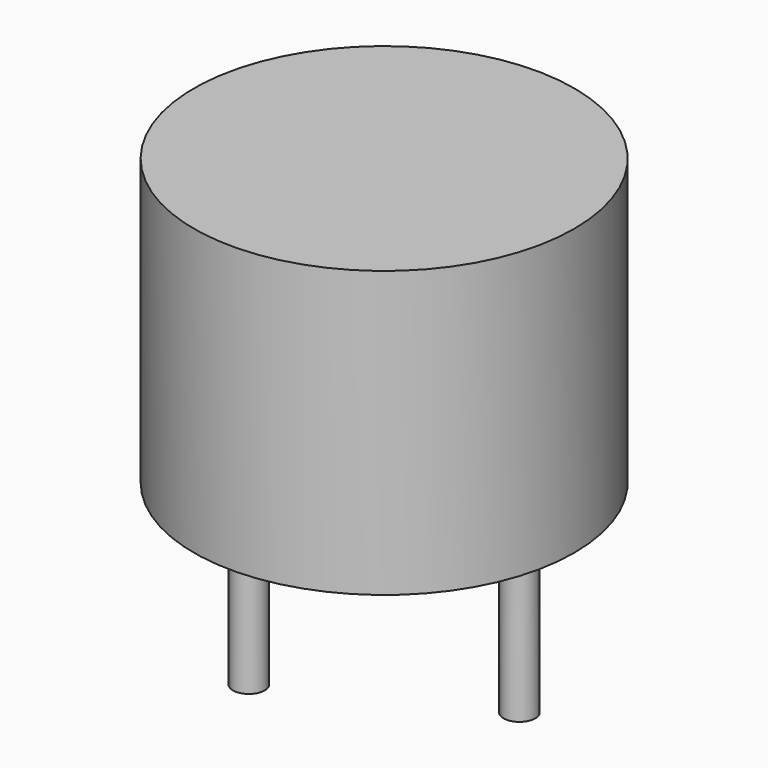
from build123d import *

# Parameters (mm, degrees)
F0_R     = 6
F1_DEPTH = 9
F2_R     = 0.5
F3_DEPTH = 7
F4_DEPTH = 5


with BuildPart() as f1:
    # F0 (on Top) → F1 (new body)
    with BuildSketch(Plane.XY):
        Circle(F0_R)
    extrude(amount=F1_DEPTH)

    # F2 (on face) → F3 (join)
    with BuildSketch(Plane(origin=(0, 0, 0), x_dir=(1, 0, 0), z_dir=(0, 0, -1))):
        with Locations((-4.267732, 0)):
            Circle(F2_R)
    extrude(amount=F3_DEPTH)

    # F2 (on face) → F4 (join)
    with BuildSketch(Plane(origin=(0, 0, 0), x_dir=(1, 0, 0), z_dir=(0, 0, -1))):
        with Locations((4.267732, 0)):
            Circle(F2_R)
    extrude(amount=F4_DEPTH)


solid = f1.part
